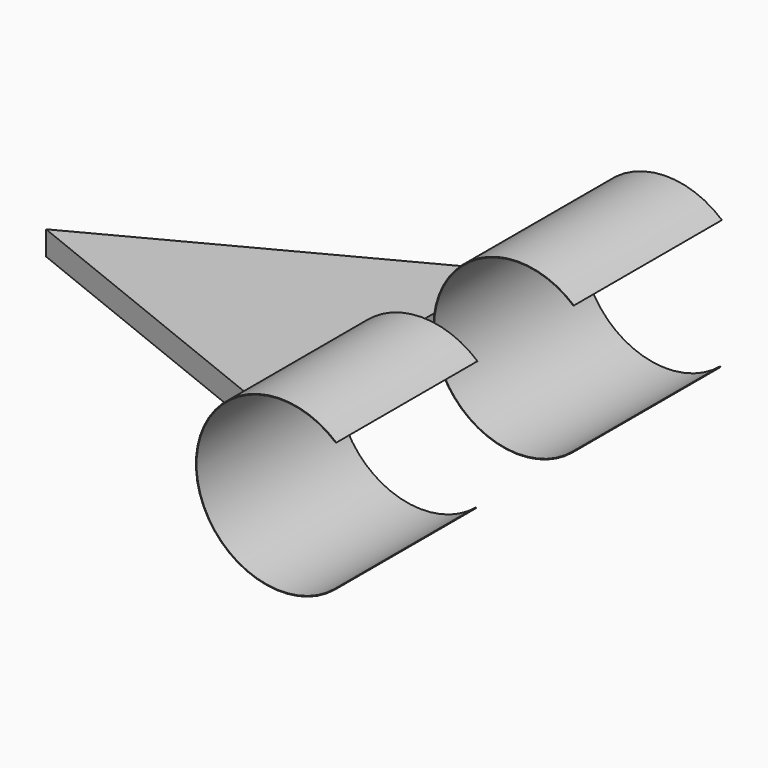
from build123d import *

# Parameters (mm, degrees)
F1_R      = 7.05
F1_R_2    = 7
F2_DEPTH  = 15.357
F4_R      = 7.05
F4_R_2    = 7
F5_DEPTH  = 14.641
F8_DEPTH  = 1
F10_W     = 43.367601
F10_H     = 10.774177
F11_DEPTH = 25


with BuildPart() as f2:
    # F1 (on offset) → F2 (new body)
    with BuildSketch(Plane.XZ.offset(-4.645)):
        with Locations((34, 17.05)):
            Circle(F1_R)
        with Locations((34, 17.05)):
            Circle(F1_R_2, mode=Mode.SUBTRACT)
    extrude(amount=-F2_DEPTH)



with BuildPart() as f5:
    # F4 (on offset) → F5 (new body)
    with BuildSketch(Plane.XZ.offset(5.359)):
        with Locations((34, 17.05)):
            Circle(F4_R)
        with Locations((34, 17.05)):
            Circle(F4_R_2, mode=Mode.SUBTRACT)
    extrude(amount=F5_DEPTH)


with BuildPart() as f2_1:
    add(f2.part)

    add(f5.part)  # F8 merges F5
    # F7 (on offset) → F8 (join, symmetric)
    with BuildSketch(Plane.XY.offset(17.05)):
        Polygon((27, -12.721453), (27, 12.37814), (0, -1.858111), align=None)
    extrude(amount=F8_DEPTH, both=True)

    # F10 (on offset) → F11 (cut)
    with BuildSketch(Plane.YZ.offset(38.5)):
        with Locations((0.986395, 17.003338)):
            Rectangle(F10_W, F10_H)
    extrude(amount=F11_DEPTH, mode=Mode.SUBTRACT)


solid = f2_1.part
